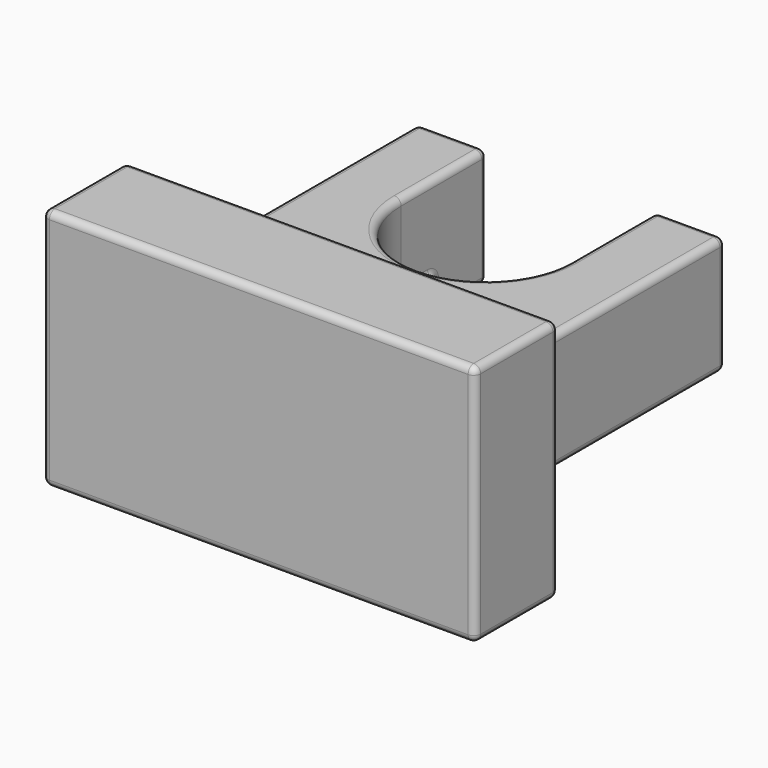
from build123d import *

# Parameters (mm, degrees)
F1_DEPTH      = 5
F2_DEPTH      = 17
F3_R          = 1
F4_W          = 62.3
F4_H          = 35
F4_W_2        = 42.3
F4_H_2        = 15
F5_DEPTH      = 5
F5_DEPTH_BACK = 10
F6_OFFSET     = 0.2
F7_R          = 1


with BuildPart() as f1:
    # F0 (on Top) → F1 (new body)
    with BuildSketch(Plane.XY):
        with BuildLine():
            Line((-12.15, 5.7574575767), (-12.15, 0))
            ThreePointArc((-12.15, 0), (0, -12.15), (12.15, 0))
            Line((12.15, 0), (12.15, 5.7574575767))
            Line((12.15, 5.7574575767), (-12.15, 5.7574575767))
        make_face()
    extrude(amount=F1_DEPTH)

    # F0 (on Top) → F2 (join)
    with BuildSketch(Plane.XY):
        with BuildLine():
            ThreePointArc((12.15, 0), (0, -12.15), (-12.15, 0))
            Line((-12.15, 0), (-12.15, 5.7574575767))
            Line((-12.15, 5.7574575767), (-12.15, 15.5114531517))
            Line((-12.15, 15.5114531517), (-22.15, 15.5114531517))
            Line((-22.15, 15.5114531517), (-22.15, -35.8169460644))
            Line((-22.15, -35.8169460644), (0, -35.8169460644))
            Line((0, -35.8169460644), (22.15, -35.8169460644))
            Line((22.15, -35.8169460644), (22.15, 15.5114531517))
            Line((22.15, 15.5114531517), (12.15, 15.5114531517))
            Line((12.15, 15.5114531517), (12.15, 5.7574575767))
            Line((12.15, 5.7574575767), (12.15, 0))
        make_face()
    extrude(amount=F2_DEPTH)

    # F3
    f3_edges = [f1.edges().sort_by_distance(p)[0] for p in [
        (0, -12.15, 17),
        (-12.15, 7.755727, 17),
        (-17.15, 15.511453, 17),
        (-22.15, -10.152746, 17),
        (0, -35.816946, 17),
        (22.15, -10.152746, 17),
        (17.15, 15.511453, 17),
        (12.15, 7.755727, 17),
        (-12.15, 2.878729, 5),
        (-12.15, 5.757458, 2.5),
        (-12.15, 10.634455, 0),
        (-12.15, 15.511453, 8.5),
        (-12.15, 0, 11),
        (12.15, 10.634455, 0),
        (12.15, 5.757458, 2.5),
        (12.15, 2.878729, 5),
        (12.15, 0, 11),
        (12.15, 15.511453, 8.5),
        (0, 5.757458, 0),
        (0, 5.757458, 5),
        (-17.15, 15.511453, 0),
        (-22.15, -10.152746, 0),
        (0, -35.816946, 0),
        (22.15, -10.152746, 0),
        (17.15, 15.511453, 0),
        (-22.15, 15.511453, 8.5),
        (-22.15, -35.816946, 8.5),
        (22.15, -35.816946, 8.5),
        (22.15, 15.511453, 8.5),
    ]]
    fillet(f3_edges, radius=F3_R)


with BuildPart() as f5:
    # F4 (on face) → F5 (new body, two sides)
    with BuildSketch(Plane.XZ.offset(35.8169460644)) as f5_sk:
        with Locations((0, 8.5)):
            Rectangle(F4_W, F4_H)
        with Locations((0, 8.5)):
            Rectangle(F4_W_2, F4_H_2, mode=Mode.SUBTRACT)
        with Locations((0, 8.5)):
            Rectangle(F4_W_2, F4_H_2)
    extrude(amount=F5_DEPTH)
    extrude(f5_sk.sketch, amount=-F5_DEPTH_BACK)

    # F6: cut F1, made larger all round first
    f6_tool = offset(f1.part, amount=F6_OFFSET, kind=Kind.INTERSECTION, mode=Mode.PRIVATE)
    add(f6_tool, mode=Mode.SUBTRACT)

    # F7
    f7_edges = [f5.edges().sort_by_distance(p)[0] for p in [
        (0, -25.816946, 26),
        (31.15, -25.816946, 8.5),
        (-31.15, -25.816946, 8.5),
        (0, -25.816946, -9),
        (21.998528, -25.816946, 0.151472),
        (22.35, -25.816946, 8.5),
        (21.998528, -25.816946, 16.848528),
        (0, -25.816946, 17.2),
        (-21.998528, -25.816946, 16.848528),
        (-22.35, -25.816946, 8.5),
        (-21.998528, -25.816946, 0.151472),
        (0, -25.816946, -0.2),
        (0, -40.816946, 26),
        (-31.15, -40.816946, 8.5),
        (0, -40.816946, -9),
        (31.15, -40.816946, 8.5),
        (31.15, -33.316946, -9),
        (31.15, -33.316946, 26),
        (-31.15, -33.316946, 26),
        (-31.15, -33.316946, -9),
    ]]
    fillet(f7_edges, radius=F7_R)


solid = Compound([f1.part, f5.part])
